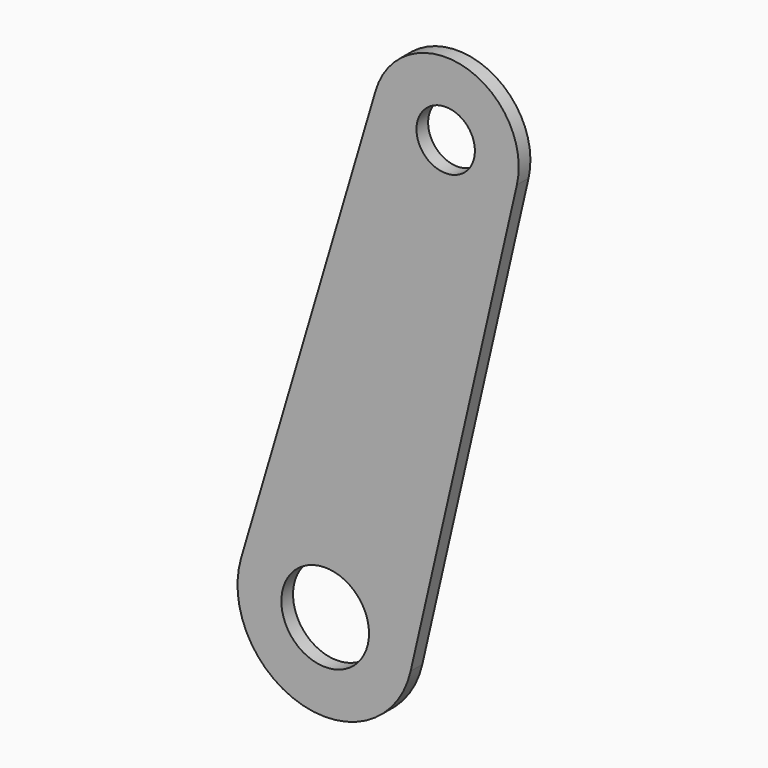
from build123d import *

# Parameters (mm, degrees)
F0_R     = 3
F0_R_2   = 2
F1_DEPTH = 0.5


with BuildPart() as f1:
    # F0 (on Front) → F1 (new body, symmetric)
    with BuildSketch(Plane.XZ):
        with BuildLine():
            Line((-24.56059, -23.580511), (-17.287917, 8.079531))
            ThreePointArc((-17.287917, 8.079531), (-20.892186, 14.035266), (-26.956002, 10.615957))
            Line((-26.956002, 10.615957), (-36.162292, -20.536799))
            ThreePointArc((-36.162292, -20.536799), (-31.930866, -28.040826), (-24.56059, -23.580511))
        make_face()
        with Locations((-30.40829, -22.237227)):
            Circle(F0_R, mode=Mode.SUBTRACT)
        with Locations((-22.161, 9.198934)):
            Circle(F0_R_2, mode=Mode.SUBTRACT)
    extrude(amount=F1_DEPTH, both=True)


solid = f1.part
